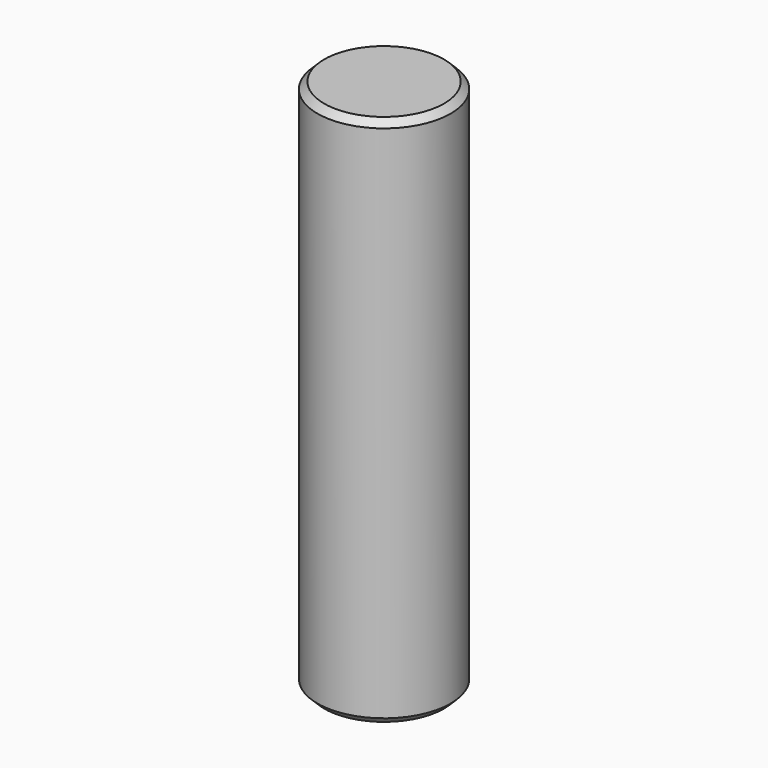
from build123d import *

# Parameters (mm, degrees)
SKETCH_R     = 2.5
PAD_DEPTH    = 20
CHAMFER_SIZE = 0.25


with BuildPart() as part:
    # Sketch → Pad (new body)
    with BuildSketch(Plane.XY):
        Circle(SKETCH_R)
    extrude(amount=PAD_DEPTH)

    # Chamfer
    chamfer_edges = [part.edges().sort_by_distance(p)[0] for p in [
        (-2.5, 0, 0),
        (-2.5, 0, 20),
    ]]
    chamfer(chamfer_edges, length=CHAMFER_SIZE)


solid = part.part
